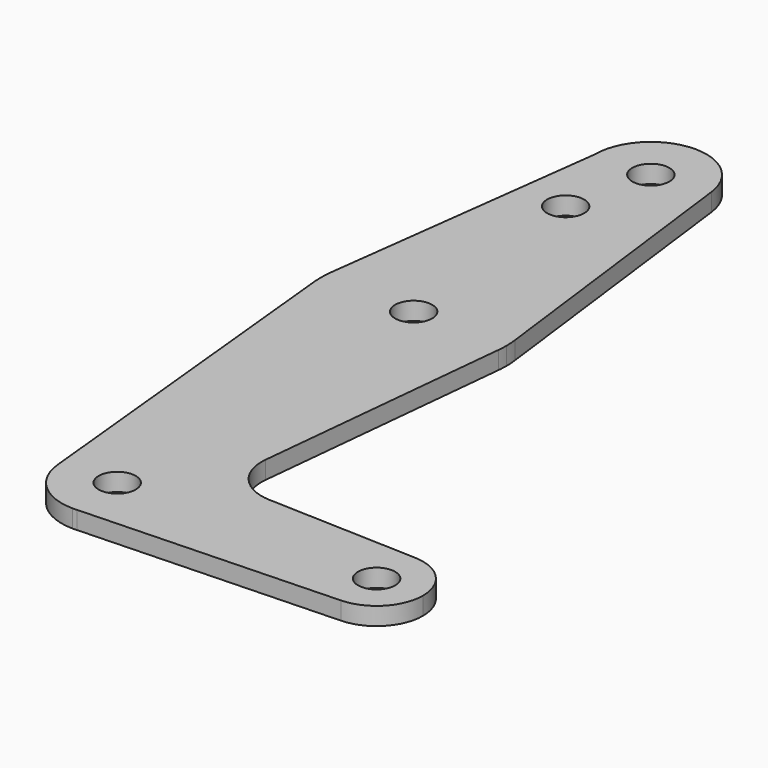
from build123d import *

# Parameters (mm, degrees)
F0_R     = 3.175
F1_DEPTH = 3.048


with BuildPart() as f1:
    # F0 (on Top) → F1 (new body)
    with BuildSketch(Plane.XY):
        with BuildLine():
            ThreePointArc((0.677344, -9.500886), (6.970557, -6.491299), (9.525, 0))
            ThreePointArc((9.525, 0), (-0.476848, 9.513056), (-9.477255, -0.9525))
            ThreePointArc((-9.477255, -0.9525), (-6.389564, -7.063929), (0, -9.525))
            Line((0, -9.525), (0.677344, -9.500886))
        make_face()
        Circle(F0_R, mode=Mode.SUBTRACT)
        with BuildLine():
            ThreePointArc((-9.477255, -0.9525), (-0.476848, 9.513056), (9.525, 0))
            ThreePointArc((9.525, 0), (6.970557, -6.491299), (0.677344, -9.500886))
            Line((0.677344, -9.500886), (44.732405, -7.932475))
            ThreePointArc((44.732405, -7.932475), (36.5125, 0.000539), (44.733482, 7.932436))
            Line((44.733482, 7.932436), (18.9676, 8.853234))
            ThreePointArc((18.9676, 8.853234), (13.2612, 11.571359), (11.341187, 17.593382))
            Line((11.341187, 17.593382), (15.795426, 61.9125))
            ThreePointArc((15.795426, 61.9125), (0, 47.625), (-15.795426, 61.9125))
            Line((-15.795426, 61.9125), (-9.477255, -0.9525))
        make_face()
        with BuildLine():
            ThreePointArc((0, -9.525), (0.338886, -9.51897), (0.677344, -9.500886))
            Line((0.677344, -9.500886), (0, -9.525))
        make_face()
        with BuildLine():
            ThreePointArc((-15.747457, 65.508289), (-15.873588, 63.711757), (-15.795426, 61.9125))
            ThreePointArc((-15.795426, 61.9125), (0, 47.625), (15.795426, 61.9125))
            ThreePointArc((15.795426, 61.9125), (15.855094, 62.705253), (15.875, 63.5))
            ThreePointArc((15.875, 63.5), (15.843841, 64.494139), (15.750488, 65.484375))
            ThreePointArc((15.750488, 65.484375), (0.012053, 79.374995), (-15.747457, 65.508289))
        make_face()
        with Locations((0, 63.5)):
            Circle(F0_R, mode=Mode.SUBTRACT)
        with BuildLine():
            ThreePointArc((44.733482, 7.932436), (36.5125, 0.000539), (44.732405, -7.932475))
            ThreePointArc((44.732405, -7.932475), (50.161633, -5.51191), (52.3875, 0))
            ThreePointArc((52.3875, 0), (50.162007, 5.511523), (44.733482, 7.932436))
        make_face()
        with Locations((44.45, 0)):
            Circle(F0_R, mode=Mode.SUBTRACT)
        with BuildLine():
            Line((-9.525, 114.3), (-15.747457, 65.508289))
            ThreePointArc((-15.747457, 65.508289), (0.012053, 79.374995), (15.750488, 65.484375))
            Line((15.750488, 65.484375), (9.450293, 115.490625))
            ThreePointArc((9.450293, 115.490625), (9.506305, 114.896483), (9.525, 114.3))
            ThreePointArc((9.525, 114.3), (0, 104.775), (-9.525, 114.3))
        make_face()
        with Locations((-3.175, 100.0252)):
            Circle(F0_R, mode=Mode.SUBTRACT)
        with BuildLine():
            ThreePointArc((9.450293, 115.490625), (-0.596483, 123.806305), (-9.525, 114.3))
            ThreePointArc((-9.525, 114.3), (0, 104.775), (9.525, 114.3))
            ThreePointArc((9.525, 114.3), (9.506305, 114.896483), (9.450293, 115.490625))
        make_face()
        with Locations((0, 114.3)):
            Circle(F0_R, mode=Mode.SUBTRACT)
    extrude(amount=F1_DEPTH)


solid = f1.part
